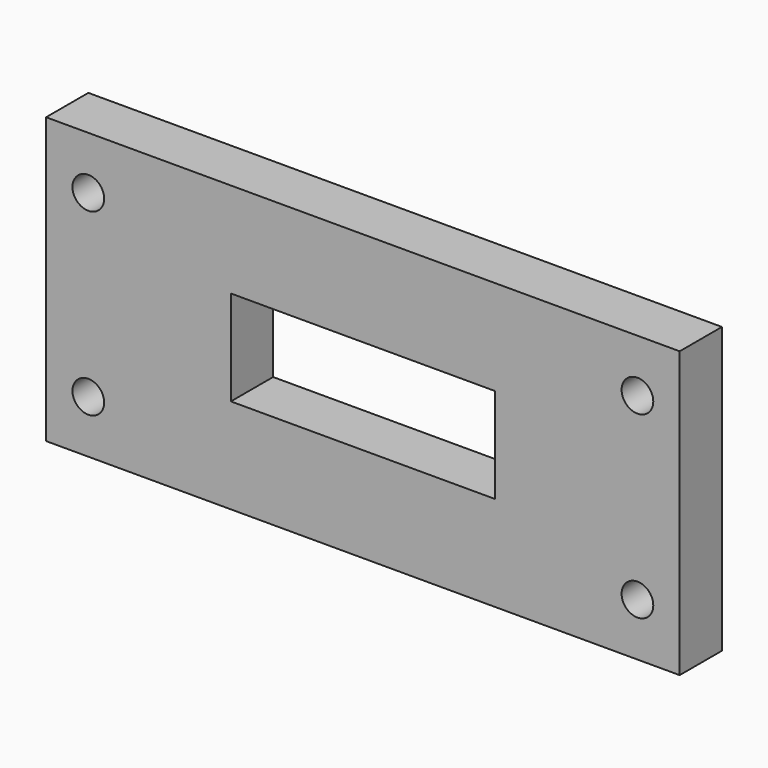
from build123d import *

# Parameters (mm, degrees)
F0_W     = 60
F0_H     = 27
F0_R     = 1.5
F1_DEPTH = 5


with BuildPart() as f1:
    # F0 (on Front) → F1 (new body)
    with BuildSketch(Plane.XZ):
        with Locations((30, 13.5)):
            Rectangle(F0_W, F0_H)
        with Locations((4, 5)):
            Circle(F0_R, mode=Mode.SUBTRACT)
        with Locations((56, 5)):
            Circle(F0_R, mode=Mode.SUBTRACT)
        with Locations((4, 22)):
            Circle(F0_R, mode=Mode.SUBTRACT)
        Polygon((17.5, 18), (30, 18), (42.5, 18), (42.5, 13.5), (42.5, 9), (30, 9), (17.5, 9), (17.5, 13.5), align=None, mode=Mode.SUBTRACT)
        with Locations((56, 22)):
            Circle(F0_R, mode=Mode.SUBTRACT)
    extrude(amount=F1_DEPTH)


solid = f1.part
